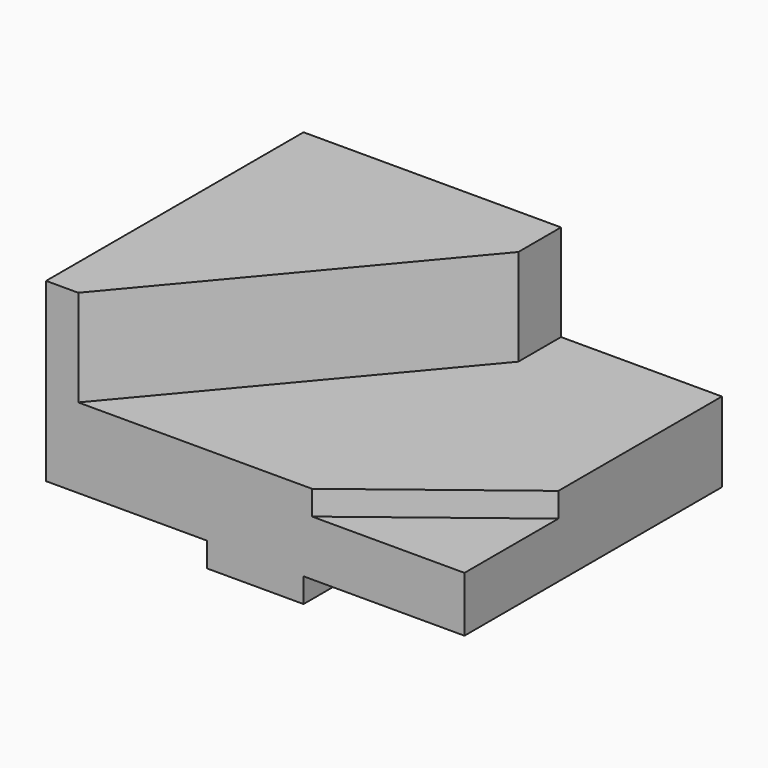
from build123d import *

# Parameters (mm, degrees)
F0_W     = 82.55
F0_H     = 39.624
F1_DEPTH = 63.5
F2_W     = 31.75
F2_H     = 4.826
F3_DEPTH = 153.924
F4_W     = 31.75
F4_H     = 4.826
F5_DEPTH = 83.058
F7_DEPTH = 19.05
F9_DEPTH = 4.826


with BuildPart() as f1:
    # F0 (on Front) → F1 (new body)
    with BuildSketch(Plane.XZ):
        with Locations((-5.060298, -1.674932)):
            Rectangle(F0_W, F0_H)
    extrude(amount=-F1_DEPTH)

    # F2 (on face) → F3 (cut)
    with BuildSketch(Plane.XZ):
        with Locations((-30.460298, -19.073932)):
            Rectangle(F2_W, F2_H)
    extrude(amount=-F3_DEPTH, mode=Mode.SUBTRACT)

    # F4 (on face) → F5 (cut)
    with BuildSketch(Plane.XZ):
        with Locations((20.339702, -19.073932)):
            Rectangle(F4_W, F4_H)
    extrude(amount=-F5_DEPTH, mode=Mode.SUBTRACT)

    # F6 (on face) → F7 (cut)
    with BuildSketch(Plane.XY.offset(18.137068)):
        Polygon((36.214702, 63.5), (4.464702, 63.5), (4.464702, 52.973447), (-39.985298, 0), (36.214702, 0), align=None)
    extrude(amount=-F7_DEPTH, mode=Mode.SUBTRACT)

    # F8 (on face) → F9 (cut)
    with BuildSketch(Plane.XY.offset(-0.912932)):
        Polygon((36.214702, 23.16233), (6.150608, 0), (36.214702, 0), align=None)
    extrude(amount=-F9_DEPTH, mode=Mode.SUBTRACT)


solid = f1.part
